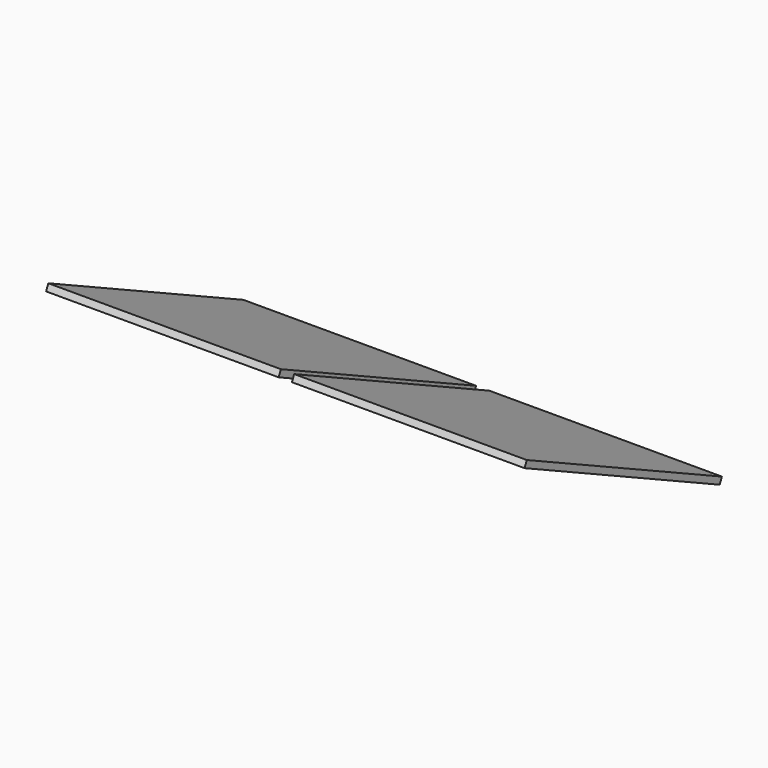
from build123d import *

# Parameters (mm, degrees)
BOX003_W               = 140
BOX003_H               = 162
BOX003_DEPTH           = 4
BOX003_ROLL_ANGLE      = 25.000043
BOX003_PLACEMENT_ANGLE = 180
BOX005_W               = 140
BOX005_H               = 162
BOX005_DEPTH           = 4
BOX005_ROLL_ANGLE      = 25.000043
BOX005_PLACEMENT_ANGLE = 180


with BuildPart() as solar_panel002:
    # Box003 → Box003 (new body)
    with BuildSketch(Plane.XY):
        with Locations((70, 81)):
            Rectangle(BOX003_W, BOX003_H)
    extrude(amount=BOX003_DEPTH)


with BuildPart() as solar_panel002_1:
    # Box003 roll: moved
    add(solar_panel002.part.rotate(Axis((0, 0, 0), (1, 0, 0)), BOX003_ROLL_ANGLE))


with BuildPart() as solar_panel002_2:
    # Box003 placement: moved
    add(solar_panel002_1.part.moved(Location((321.5, 284, 8))).rotate(Axis((321.5, 284, 8), (0, 0, 1)), BOX003_PLACEMENT_ANGLE))


with BuildPart() as obj1:
    # Box005 → Box005 (new body)
    with BuildSketch(Plane.XY):
        with Locations((70, 81)):
            Rectangle(BOX005_W, BOX005_H)
    extrude(amount=BOX005_DEPTH)


with BuildPart() as obj1_1:
    # Box005 roll: moved
    add(obj1.part.rotate(Axis((0, 0, 0), (1, 0, 0)), BOX005_ROLL_ANGLE))


with BuildPart() as obj1_2:
    # Box005 placement: moved
    add(obj1_1.part.moved(Location((173.5, 284, 8))).rotate(Axis((173.5, 284, 8), (0, 0, 1)), BOX005_PLACEMENT_ANGLE))

    # Fusion006: union solar Panel002
    add(solar_panel002_2.part)


solid = obj1_2.part
